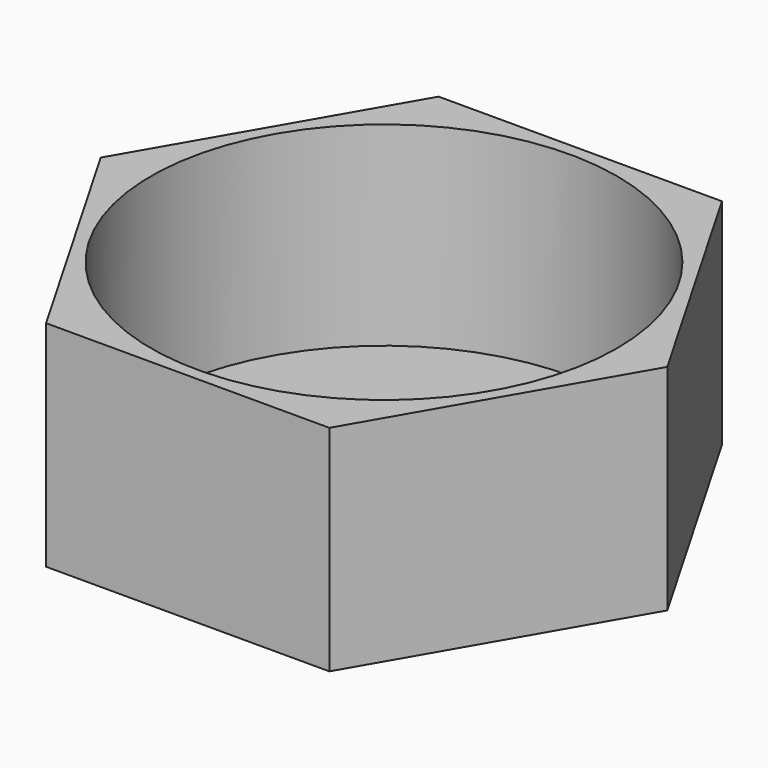
from build123d import *

# Parameters (mm, degrees)
F1_DEPTH = 4
F3_R     = 47.5
F4_DEPTH = 39.7


with BuildPart() as f1:
    # F0 (on Top) → F1 (new body)
    with BuildSketch(Plane.XY):
        Polygon((28.867513, 50), (-28.867513, 50), (-57.735027, 0), (-28.867513, -50), (28.867513, -50), (57.735027, 0), align=None)
    extrude(amount=F1_DEPTH)

    # F3 (on face) → F4 (join)
    with BuildSketch(Plane.XY.offset(4)):
        Polygon((57.735027, 0), (28.867513, 50), (-28.867513, 50), (-57.735027, 0), (-28.867513, -50), (28.867513, -50), align=None)
        Circle(F3_R, mode=Mode.SUBTRACT)
    extrude(amount=F4_DEPTH)


solid = f1.part
